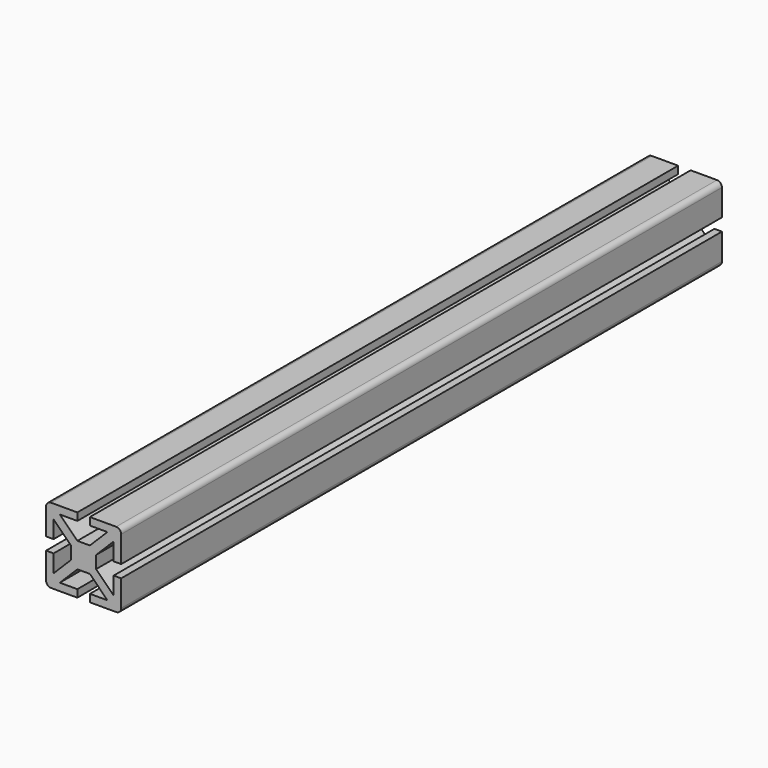
from build123d import *

# Parameters (mm, degrees)
F1_DEPTH = 300


with BuildPart() as f1:
    # F0 (on Front) → F1 (new body)
    with BuildSketch(Plane.XZ):
        with BuildLine():
            Line((28, 30), (17.5, 30))
            Line((17.5, 30), (17.5, 27))
            Line((17.5, 27), (24.5, 27))
            Line((24.5, 27), (17.5, 20))
            Line((17.5, 20), (12.5, 20))
            Line((12.5, 20), (5.5, 27))
            Line((5.5, 27), (12.5, 27))
            Line((12.5, 27), (12.5, 30))
            Line((12.5, 30), (2, 30))
            ThreePointArc((2, 30), (0.585786, 29.414214), (0, 28))
            Line((0, 28), (0, 17.5))
            Line((0, 17.5), (3, 17.5))
            Line((3, 17.5), (3, 24.5))
            Line((3, 24.5), (10, 17.5))
            Line((10, 17.5), (10, 12.5))
            Line((10, 12.5), (3, 5.5))
            Line((3, 5.5), (3, 12.5))
            Line((3, 12.5), (0, 12.5))
            Line((0, 12.5), (0, 2))
            ThreePointArc((0, 2), (0.585786, 0.585786), (2, 0))
            Line((2, 0), (12.5, 0))
            Line((12.5, 0), (12.5, 3))
            Line((12.5, 3), (5.5, 3))
            Line((5.5, 3), (12.5, 10))
            Line((12.5, 10), (17.5, 10))
            Line((17.5, 10), (24.5, 3))
            Line((24.5, 3), (17.5, 3))
            Line((17.5, 3), (17.5, 0))
            Line((17.5, 0), (28, 0))
            ThreePointArc((28, 0), (29.414214, 0.585786), (30, 2))
            Line((30, 2), (30, 12.5))
            Line((30, 12.5), (27, 12.5))
            Line((27, 12.5), (27, 5.5))
            Line((27, 5.5), (20, 12.5))
            Line((20, 12.5), (20, 17.5))
            Line((20, 17.5), (27, 24.5))
            Line((27, 24.5), (27, 17.5))
            Line((27, 17.5), (30, 17.5))
            Line((30, 17.5), (30, 28))
            ThreePointArc((30, 28), (29.414214, 29.414214), (28, 30))
        make_face()
    extrude(amount=F1_DEPTH)


solid = f1.part
